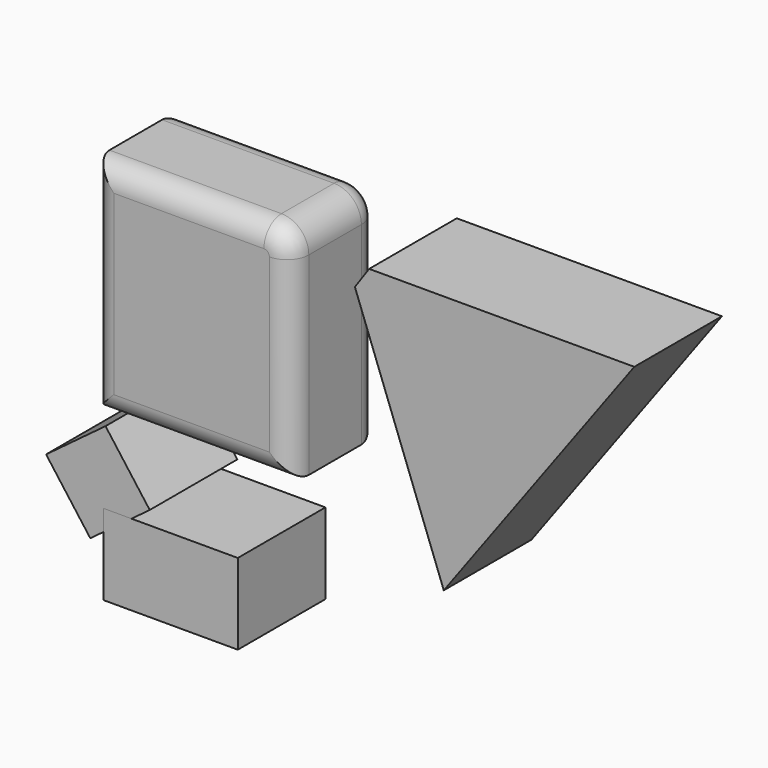
from build123d import *

# Parameters (mm, degrees)
F1_DEPTH = 25.4
F2_W     = 31.103589
F2_H     = 18.732842
F3_DEPTH = 25.4
F4_R     = 5.08
F5_SIZE  = 5.08


with BuildPart() as f1:
    # F0 (on Front) → F1 (new body)
    with BuildSketch(Plane.XZ):
        with BuildLine():
            Line((-56.441986, -13.030786), (-10.206229, -13.030786))
            Line((-10.206229, -13.030786), (-10.206229, 31.898874))
            ThreePointArc((-10.206229, 31.898874), (-12.066101, 36.389002), (-16.556229, 38.248874))
            Line((-16.556229, 38.248874), (-56.441986, 38.248874))
            Line((-56.441986, 38.248874), (-56.441986, -13.030786))
        make_face()
        Polygon((69.33511, 36.979739), (2.765061, 36.979739), (25.15409, -23.022867), align=None)
        Polygon((-56.820964, -39.042376), (-43.036418, -28.792329), (-53.286465, -15.007783), (-67.071011, -25.25783), align=None)
    extrude(amount=F1_DEPTH)

    # F4
    f4_edges = [f1.edges().sort_by_distance(p)[0] for p in [
        (-33.324108, -25.4, -13.030786),
        (-56.441986, -25.4, 12.609044),
        (-10.206229, -25.4, 9.434044),
        (-10.206229, 0, 9.434044),
        (-33.324108, 0, -13.030786),
        (-56.441986, 0, 12.609044),
    ]]
    fillet(f4_edges, radius=F4_R)

    # F5
    f5_edges = [f1.edges().sort_by_distance(p)[0] for p in [
        (2.765061, -12.7, 36.979739),
    ]]
    chamfer(f5_edges, length=F5_SIZE)


with BuildPart() as f3:
    # F2 (on Front) → F3 (new body)
    with BuildSketch(Plane.XZ):
        with Locations((-38.163881, -41.309921)):
            Rectangle(F2_W, F2_H)
    extrude(amount=F3_DEPTH)


solid = Compound([f1.part, f3.part])
